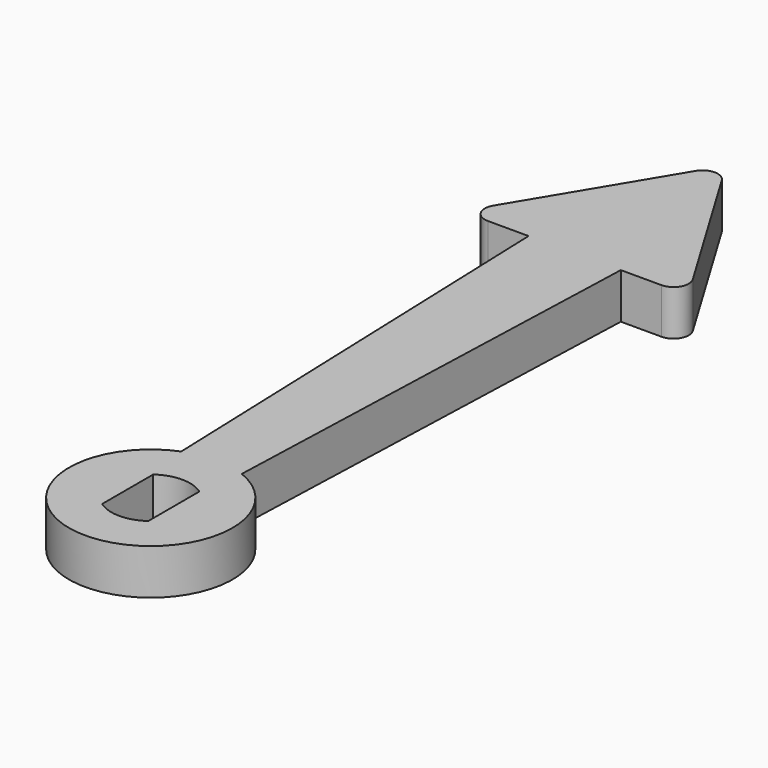
from build123d import *

# Parameters (mm, degrees)
F0_R     = 5.4
F1_DEPTH = 1.5
F3_DEPTH = 3
F5_DEPTH = 3
F6_R     = 1


with BuildPart() as f1:
    # F0 (on Top) → F1 (new body, symmetric)
    with BuildSketch(Plane.XY):
        Circle(F0_R)
        with BuildLine():
            ThreePointArc((1.525, 2.105796), (2.315707, 1.182159), (2.6, 0))
            ThreePointArc((2.6, 0), (2.315707, -1.182159), (1.525, -2.105796))
            ThreePointArc((1.525, -2.105796), (0, -2.6), (-1.525, -2.105796))
            ThreePointArc((-1.525, -2.105796), (-2.6, 0), (-1.525, 2.105796))
            ThreePointArc((-1.525, 2.105796), (0, 2.6), (1.525, 2.105796))
        make_face(mode=Mode.SUBTRACT)
        with BuildLine():
            ThreePointArc((1.525, -2.105796), (2.315707, -1.182159), (2.6, 0))
            ThreePointArc((2.6, 0), (2.315707, 1.182159), (1.525, 2.105796))
            Line((1.525, 2.105796), (1.525, -2.105796))
        make_face()
        with BuildLine():
            Line((-1.525, -2.105796), (-1.525, 2.105796))
            ThreePointArc((-1.525, 2.105796), (-2.6, 0), (-1.525, -2.105796))
        make_face()
    extrude(amount=F1_DEPTH, both=True)

    # F2 (on face) → F3 (join, through all)
    with BuildSketch(Plane.XY.offset(1.5)):
        Polygon((3.047065, 35), (0, 35), (-3.047065, 35), (-2, 5.015974), (0, 5.015974), (2, 5.015974), align=None)
    extrude(amount=-F3_DEPTH)

    # F4 (on face) → F5 (join, through all)
    with BuildSketch(Plane.XY.offset(1.5)):
        Polygon((0, 47.5), (-7.5, 35), (7.5, 35), align=None)
    extrude(amount=-F5_DEPTH)

    # F6
    f6_edges = [f1.edges().sort_by_distance(p)[0] for p in [
        (7.5, 35, 0),
        (-7.5, 35, 0),
        (0, 47.5, 0),
    ]]
    fillet(f6_edges, radius=F6_R)


solid = f1.part
